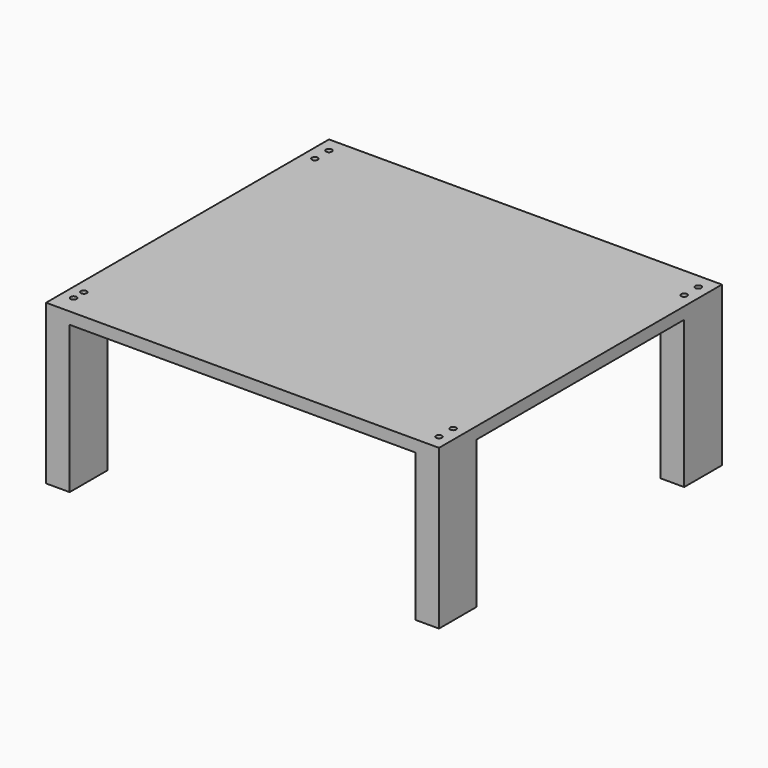
from build123d import *

# Parameters (mm, degrees)
F0_W     = 400
F0_H     = 360
F0_R     = 3
F2_DEPTH = 12
F1_W     = 24
F1_H     = 48
F3_DEPTH = 150


with BuildPart() as f2:
    # F0 (on Top) → F2 (new body)
    with BuildSketch(Plane.XY):
        with Locations((-30.968213, -48.251697)):
            Rectangle(F0_W, F0_H)
        with Locations((-218.968213, -208.251697)):
            Circle(F0_R, mode=Mode.SUBTRACT)
        with Locations((-218.968213, -195.251697)):
            Circle(F0_R, mode=Mode.SUBTRACT)
        with Locations((157.031787, -213.251697)):
            Circle(F0_R, mode=Mode.SUBTRACT)
        with Locations((157.031787, -195.251697)):
            Circle(F0_R, mode=Mode.SUBTRACT)
        with Locations((-218.968213, 98.748303)):
            Circle(F0_R, mode=Mode.SUBTRACT)
        with Locations((-218.968213, 116.748303)):
            Circle(F0_R, mode=Mode.SUBTRACT)
        with Locations((157.031787, 98.748303)):
            Circle(F0_R, mode=Mode.SUBTRACT)
        with Locations((157.031787, 116.748303)):
            Circle(F0_R, mode=Mode.SUBTRACT)
    extrude(amount=F2_DEPTH)

    # F1 (on Top) → F3 (join)
    with BuildSketch(Plane.XY):
        with Locations((-218.968213, -204.251697)):
            Rectangle(F1_W, F1_H)
        with Locations((-218.968213, 107.748303)):
            Rectangle(F1_W, F1_H)
        with Locations((157.031787, 107.748303)):
            Rectangle(F1_W, F1_H)
        with Locations((157.031787, -204.251697)):
            Rectangle(F1_W, F1_H)
    extrude(amount=-F3_DEPTH)


solid = f2.part
